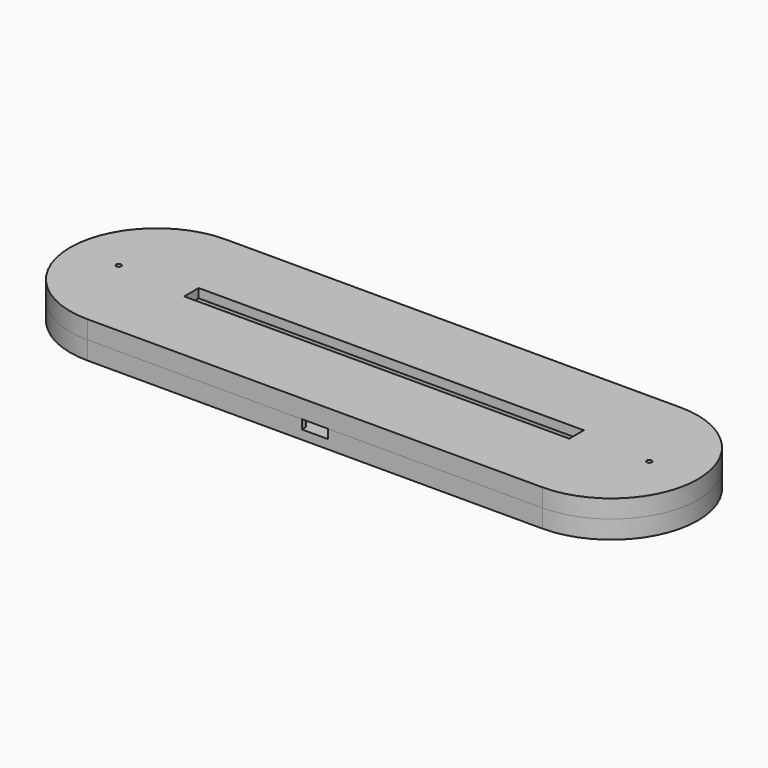
from build123d import *

# Parameters (mm, degrees)
BOX_BOTTOM_HALF_0_W     = 209
BOX_BOTTOM_HALF_0_H     = 59
BOX_BOTTOM_HALF_0_DEPTH = 7
PAD_DEPTH               = 6
POCKET_DEPTH            = 3
SKETCH002_W             = 18.4
SKETCH002_H             = 20.85
POCKET001_DEPTH         = 3
SKETCH003_W             = 8.55
SKETCH003_H             = 1.65
POCKET002_DEPTH         = 3
PAD001_DEPTH            = 3
SKETCH005_W             = 127
SKETCH005_H             = 6
PAD002_DEPTH            = 3
SKETCH006_R             = 0.825
POCKET003_DEPTH         = 442.080062
POLARPATTERN_COUNT      = 2


with BuildPart() as box_bottom_half_0_body:
    # box_bottom_half_0 → box_bottom_half_0 (new body)
    with BuildSketch(Plane(origin=(-104.5, -29.5, -1), x_dir=(1, 0, 0), z_dir=(0, 0, 1))):
        with Locations((104.5, 29.5)):
            Rectangle(BOX_BOTTOM_HALF_0_W, BOX_BOTTOM_HALF_0_H)
    extrude(amount=BOX_BOTTOM_HALF_0_DEPTH)


with BuildPart() as body:
    # Sketch → Pad (new body)
    with BuildSketch(Plane.XY):
        with BuildLine():
            ThreePointArc((-75, 28.5), (-103.5, 0), (-75, -28.5))
            Line((-75, -28.5), (75, -28.5))
            ThreePointArc((75, -28.5), (103.5, 0), (75, 28.5))
            Line((-75, 28.5), (75, 28.5))
        make_face()
    extrude(amount=PAD_DEPTH)

    # Sketch001 (on Face6 of Pad) → Pocket (cut)
    with BuildSketch(Plane.XY.offset(6)):
        with BuildLine():
            ThreePointArc((-62.5, 6), (-68.5, 0), (-62.5, -6))
            Line((-62.5, -6), (62.5, -6))
            ThreePointArc((62.5, -6), (68.5, 0), (62.5, 6))
            Line((-62.5, 6), (62.5, 6))
        make_face()
    extrude(amount=-POCKET_DEPTH, mode=Mode.SUBTRACT)

    # Sketch002 (on Face5 of Pocket) → Pocket001 (cut)
    with BuildSketch(Plane.XY.offset(6)):
        with Locations((0, -16.425)):
            Rectangle(SKETCH002_W, SKETCH002_H)
    extrude(amount=-POCKET001_DEPTH, mode=Mode.SUBTRACT)

    # Sketch003 (on Face5 of Pocket001) → Pocket002 (cut)
    with BuildSketch(Plane.XY.offset(6)):
        with Locations((0, -27.675)):
            Rectangle(SKETCH003_W, SKETCH003_H)
    extrude(amount=-POCKET002_DEPTH, mode=Mode.SUBTRACT)

    # Sketch004 (on Face5 of Pocket002) → Pad001 (join)
    with BuildSketch(Plane.XY.offset(6)):
        with BuildLine():
            ThreePointArc((-75, 28.5), (-103.5, 0), (-75, -28.5))
            Line((-75, -28.5), (75, -28.5))
            ThreePointArc((75, -28.5), (103.5, 0), (75, 28.5))
            Line((-75, 28.5), (75, 28.5))
        make_face()
        with BuildLine():
            ThreePointArc((-62.5, 6), (-68.5, 0), (-62.5, -6))
            Line((-62.5, -6), (62.5, -6))
            ThreePointArc((62.5, -6), (68.5, 0), (62.5, 6))
            Line((-62.5, 6), (62.5, 6))
        make_face(mode=Mode.SUBTRACT)
    extrude(amount=PAD001_DEPTH)

    # Sketch005 (on Face12 of Pad001) → Pad002 (join)
    with BuildSketch(Plane.XY.offset(9)):
        with BuildLine():
            ThreePointArc((-75, 28.5), (-103.5, 0), (-75, -28.5))
            Line((-75, -28.5), (75, -28.5))
            ThreePointArc((75, -28.5), (103.5, 0), (75, 28.5))
            Line((-75, 28.5), (75, 28.5))
        make_face()
        Rectangle(SKETCH005_W, SKETCH005_H, mode=Mode.SUBTRACT)
    extrude(amount=PAD002_DEPTH)

    # Sketch006 (on Face20 of Pad002) → Pocket003 (cut, through all)
    with BuildSketch(Plane.XY.offset(12)):
        with Locations((-87.5, 0)):
            Circle(SKETCH006_R)
    pocket003 = extrude(amount=-POCKET003_DEPTH, mode=Mode.SUBTRACT)

    # PolarPattern: Pocket003 ×2 about axis
    polarpattern_axis = Axis((0, 0, 12), (0, 0, 1))
    for i in range(1, POLARPATTERN_COUNT):
        add(pocket003.rotate(polarpattern_axis, i * 360 / POLARPATTERN_COUNT), mode=Mode.SUBTRACT)


with BuildPart() as bottom_half_0_body:
    # bottom_half_0 base: copy of Body
    add(body.part)

    # bottom_half_0: intersect box_bottom_half_0 body
    add(box_bottom_half_0_body.part, mode=Mode.INTERSECT)


with BuildPart() as top_half_0_body:
    # top_half_0 base: copy of Body
    add(body.part)

    # top_half_0: cut box_bottom_half_0 body
    add(box_bottom_half_0_body.part, mode=Mode.SUBTRACT)


solid = Compound([bottom_half_0_body.part, top_half_0_body.part])
